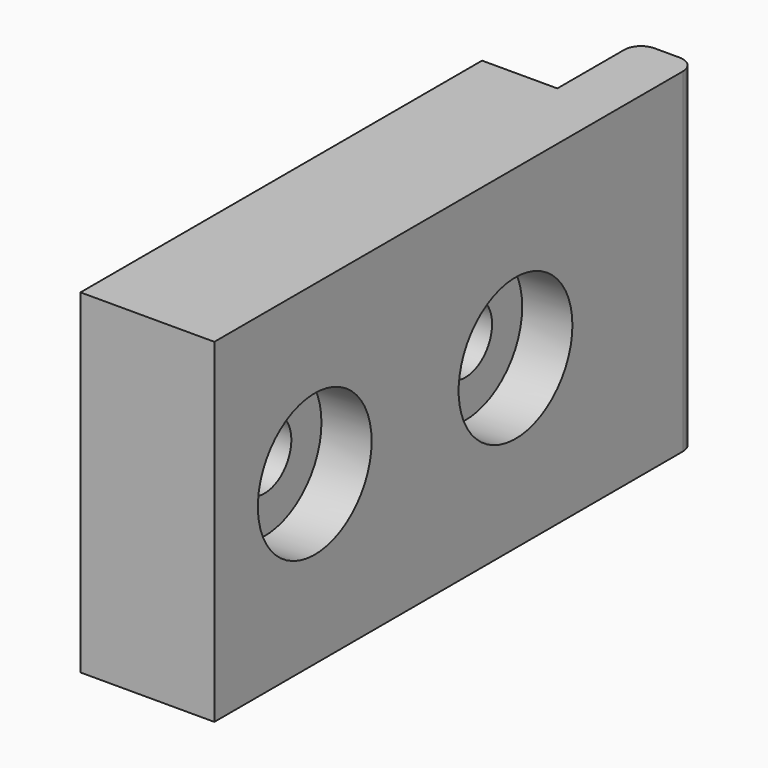
from build123d import *

# Parameters (mm, degrees)
F1_DEPTH = 20
F2_R     = 2
F3_DEPTH = 8.001
F4_R     = 1
F5_R     = 4.25
F6_DEPTH = 3


with BuildPart() as f1:
    # F0 (on Top) → F1 (new body)
    with BuildSketch(Plane.XY):
        Polygon((8, 0), (8, 36), (4.5, 36), (4.5, 30), (0, 30), (0, 0), align=None)
    extrude(amount=F1_DEPTH)

    # F2 (on face) → F3 (cut, through all)
    with BuildSketch(Plane(origin=(0, 0, 0), x_dir=(0, -1, 0), z_dir=(-1, 0, 0))):
        with Locations((-7.5, 10)):
            Circle(F2_R)
        with Locations((-22.5, 10)):
            Circle(F2_R)
    extrude(amount=-F3_DEPTH, mode=Mode.SUBTRACT)

    # F4
    f4_edges = [f1.edges().sort_by_distance(p)[0] for p in [
        (4.5, 36, 10),
        (8, 36, 10),
    ]]
    fillet(f4_edges, radius=F4_R)

    # F5 (on face) → F6 (cut)
    with BuildSketch(Plane.YZ.offset(8)):
        with Locations((22.5, 10)):
            Circle(F5_R)
        with Locations((7.5, 10)):
            Circle(F5_R)
    extrude(amount=-F6_DEPTH, mode=Mode.SUBTRACT)


solid = f1.part
